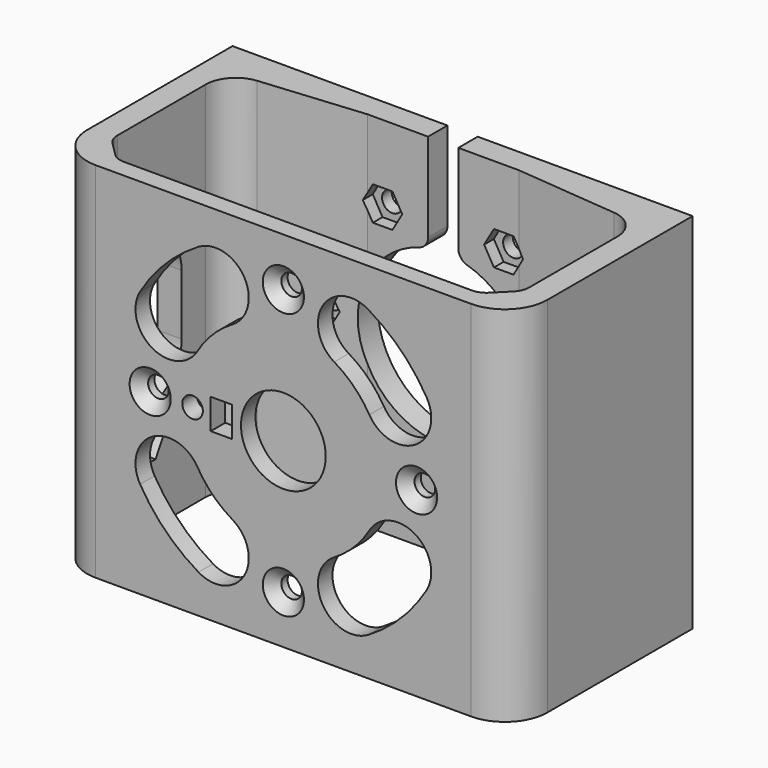
from build123d import *

# Parameters (mm, degrees)
SKETCH_W              = 76
SKETCH_H              = 37
PAD_DEPTH             = 30
SKETCH020_R           = 14
POCKET_DEPTH          = 8
SKETCH026_R           = 1.7
PAD001_DEPTH          = 2
POCKET001_DEPTH       = 4
POLARPATTERN_COUNT    = 6
SKETCH025_R           = 1.7
POCKET005_DEPTH       = 211.317184
POLARPATTERN001_COUNT = 6
SKETCH022_R           = 1.7
SKETCH022_R_2         = 7
SKETCH022_W           = 3.5
SKETCH022_H           = 5
POCKET002_DEPTH       = 5
SKETCH027_W           = 5
SKETCH027_H           = 30
POCKET006_DEPTH       = 4.001
SKETCH028_R           = 1.6
POCKET007_DEPTH       = 5
POCKET008_DEPTH       = 2
FILLET_R              = 7
FILLET001_R           = 7
FILLET002_R           = 5
FILLET003_R           = 5
FILLET004_R           = 3
FILLET005_R           = 3
FILLET006_R           = 3
FILLET007_R           = 3
FILLET008_R           = 2
FILLET009_R           = 2
CHAMFER_SIZE          = 1.7
CHAMFER001_SIZE       = 1.7
CHAMFER002_SIZE       = 1.7
CHAMFER003_SIZE       = 1.7


with BuildPart() as part:
    # Sketch → Pad (new body, symmetric)
    with BuildSketch(Plane.XY):
        Rectangle(SKETCH_W, SKETCH_H)
        Polygon((-34, -11.5), (-30, -15.5), (30, -15.5), (34, -11.5), (34, 12.5), (12.5, 14.5), (-12.5, 14.5), (-34, 12.5), align=None, mode=Mode.SUBTRACT)
    extrude(amount=PAD_DEPTH, both=True)

    # Sketch020 → Pocket (cut)
    with BuildSketch(Plane(origin=(0, 18.5, 0), x_dir=(-1, 0, 0), z_dir=(0, 1, 0))):
        Circle(SKETCH020_R)
    extrude(amount=-POCKET_DEPTH, mode=Mode.SUBTRACT)

    # Sketch026 → Pad001 (new body)
    with BuildSketch(Plane.XZ.offset(-14.5)):
        with Locations((20, 0)):
            Circle(SKETCH026_R)
    extrude(amount=PAD001_DEPTH)

    # Sketch021 → Pocket001 (cut)
    with BuildSketch(Plane.XZ.offset(-12.5)):
        Polygon((18.383419, 2.8), (16.766838, 0), (18.383419, -2.8), (21.616581, -2.8), (23.233162, 0), (21.616581, 2.8), align=None)
    pocket001 = extrude(amount=-POCKET001_DEPTH, mode=Mode.SUBTRACT)

    # PolarPattern: Pocket001 ×6 about axis
    polarpattern_axis = Axis((0, 12.5, 0), (0, -1, 0))
    for i in range(1, POLARPATTERN_COUNT):
        add(pocket001.rotate(polarpattern_axis, i * 360 / POLARPATTERN_COUNT), mode=Mode.SUBTRACT)

    # Sketch025 → Pocket005 (cut, through all)
    with BuildSketch(Plane.XZ.offset(-14.5)):
        with Locations((20, 0)):
            Circle(SKETCH025_R)
    pocket005 = extrude(amount=-POCKET005_DEPTH, mode=Mode.SUBTRACT)

    # PolarPattern001: Pocket005 ×6 about axis
    polarpattern001_axis = Axis((0, 14.5, 0), (0, -1, 0))
    for i in range(1, POLARPATTERN001_COUNT):
        add(pocket005.rotate(polarpattern001_axis, i * 360 / POLARPATTERN001_COUNT), mode=Mode.SUBTRACT)

    # Sketch022 → Pocket002 (cut)
    with BuildSketch(Plane.XZ.offset(18.5)):
        with Locations((0, 22)):
            Circle(SKETCH022_R)
        with Locations((0, -22)):
            Circle(SKETCH022_R)
        with Locations((-22, 0)):
            Circle(SKETCH022_R)
        with Locations((22, 0)):
            Circle(SKETCH022_R)
        Circle(SKETCH022_R_2)
        with Locations((-15, 0)):
            Circle(SKETCH022_R)
        with BuildLine():
            ThreePointArc((-23.660997, 14.014536), (-21.731705, 6.47943), (-14.196598, 8.408722))
            ThreePointArc((-8.408722, 14.196598), (-11.667262, 11.667262), (-14.196598, 8.408722))
            ThreePointArc((-8.408722, 14.196598), (-6.47943, 21.731705), (-14.014536, 23.660997))
            ThreePointArc((-14.014536, 23.660997), (-19.445436, 19.445436), (-23.660997, 14.014536))
        make_face()
        with BuildLine():
            ThreePointArc((8.408722, -14.196598), (11.667262, -11.667262), (14.196598, -8.408722))
            ThreePointArc((23.660997, -14.014536), (21.731705, -6.47943), (14.196598, -8.408722))
            ThreePointArc((14.014536, -23.660997), (19.445436, -19.445436), (23.660997, -14.014536))
            ThreePointArc((8.408722, -14.196598), (6.47943, -21.731705), (14.014536, -23.660997))
        make_face()
        with BuildLine():
            ThreePointArc((23.660997, 14.014536), (19.445436, 19.445436), (14.014536, 23.660997))
            ThreePointArc((14.014536, 23.660997), (6.47943, 21.731705), (8.408722, 14.196598))
            ThreePointArc((14.196598, 8.408722), (11.667262, 11.667262), (8.408722, 14.196598))
            ThreePointArc((14.196598, 8.408722), (21.731705, 6.47943), (23.660997, 14.014536))
        make_face()
        with BuildLine():
            ThreePointArc((-14.014536, -23.660997), (-6.47943, -21.731705), (-8.408722, -14.196598))
            ThreePointArc((-14.196598, -8.408722), (-11.667262, -11.667262), (-8.408722, -14.196598))
            ThreePointArc((-14.196598, -8.408722), (-21.731705, -6.47943), (-23.660997, -14.014536))
            ThreePointArc((-23.660997, -14.014536), (-19.445436, -19.445436), (-14.014536, -23.660997))
        make_face()
        with Locations((-10.25, 0)):
            Rectangle(SKETCH022_W, SKETCH022_H)
    extrude(amount=-POCKET002_DEPTH, mode=Mode.SUBTRACT)

    # Sketch027 → Pocket006 (cut, through all)
    with BuildSketch(Plane.XZ.offset(-14.5)):
        with Locations((0, 15)):
            Rectangle(SKETCH027_W, SKETCH027_H)
    extrude(amount=-POCKET006_DEPTH, mode=Mode.SUBTRACT)

    # Sketch028 → Pocket007 (cut)
    with BuildSketch(Plane(origin=(-38, 0, 0), x_dir=(0, -1, 0), z_dir=(-1, 0, 0))):
        with Locations((4, 17.5)):
            Circle(SKETCH028_R)
        with Locations((4, -17.5)):
            Circle(SKETCH028_R)
        with BuildLine():
            ThreePointArc((11, 5), (4, 12), (-3, 5))
            Line((-3, 5), (-3, -5))
            ThreePointArc((-3, -5), (4, -12), (11, -5))
            Line((11, 5), (11, -5))
        make_face()
    extrude(amount=-POCKET007_DEPTH, mode=Mode.SUBTRACT)

    # Sketch029 → Pocket008 (cut)
    with BuildSketch(Plane.YZ.offset(-34)):
        Polygon((-2.383419, 14.7), (-0.766838, 17.5), (-2.383419, 20.3), (-5.616581, 20.3), (-7.233162, 17.5), (-5.616581, 14.7), align=None)
        Polygon((-7.233162, -17.5), (-5.616581, -20.3), (-2.383419, -20.3), (-0.766838, -17.5), (-2.383419, -14.7), (-5.616581, -14.7), align=None)
    extrude(amount=-POCKET008_DEPTH, mode=Mode.SUBTRACT)

    # Fillet
    fillet_edges = [part.edges().sort_by_distance(p)[0] for p in [
        (-38, -18.5, 0),
    ]]
    fillet(fillet_edges, radius=FILLET_R)

    # Fillet001
    fillet001_edges = [part.edges().sort_by_distance(p)[0] for p in [
        (38, -18.5, 0),
    ]]
    fillet(fillet001_edges, radius=FILLET001_R)

    # Fillet002
    fillet002_edges = [part.edges().sort_by_distance(p)[0] for p in [
        (-34, 12.5, 0),
    ]]
    fillet(fillet002_edges, radius=FILLET002_R)

    # Fillet003
    fillet003_edges = [part.edges().sort_by_distance(p)[0] for p in [
        (34, 12.5, 0),
    ]]
    fillet(fillet003_edges, radius=FILLET003_R)

    # Fillet004
    fillet004_edges = [part.edges().sort_by_distance(p)[0] for p in [
        (-30, -15.5, 0),
    ]]
    fillet(fillet004_edges, radius=FILLET004_R)

    # Fillet005
    fillet005_edges = [part.edges().sort_by_distance(p)[0] for p in [
        (30, -15.5, 0),
    ]]
    fillet(fillet005_edges, radius=FILLET005_R)

    # Fillet006
    fillet006_edges = [part.edges().sort_by_distance(p)[0] for p in [
        (34, -11.5, 0),
    ]]
    fillet(fillet006_edges, radius=FILLET006_R)

    # Fillet007
    fillet007_edges = [part.edges().sort_by_distance(p)[0] for p in [
        (-34, -11.5, 0),
    ]]
    fillet(fillet007_edges, radius=FILLET007_R)

    # Fillet008
    fillet008_edges = [part.edges().sort_by_distance(p)[0] for p in [
        (-2.5, 16.5, 13.774977),
    ]]
    fillet(fillet008_edges, radius=FILLET008_R)

    # Fillet009
    fillet009_edges = [part.edges().sort_by_distance(p)[0] for p in [
        (2.5, 16.5, 13.774977),
    ]]
    fillet(fillet009_edges, radius=FILLET009_R)

    # Chamfer
    chamfer_edges = [part.edges().sort_by_distance(p)[0] for p in [
        (-1.7, -18.5, 22),
    ]]
    chamfer(chamfer_edges, length=CHAMFER_SIZE)

    # Chamfer001
    chamfer001_edges = [part.edges().sort_by_distance(p)[0] for p in [
        (20.3, -18.5, 0),
    ]]
    chamfer(chamfer001_edges, length=CHAMFER001_SIZE)

    # Chamfer002
    chamfer002_edges = [part.edges().sort_by_distance(p)[0] for p in [
        (-23.7, -18.5, 0),
    ]]
    chamfer(chamfer002_edges, length=CHAMFER002_SIZE)

    # Chamfer003
    chamfer003_edges = [part.edges().sort_by_distance(p)[0] for p in [
        (-1.7, -18.5, -22),
    ]]
    chamfer(chamfer003_edges, length=CHAMFER003_SIZE)


solid = part.part
